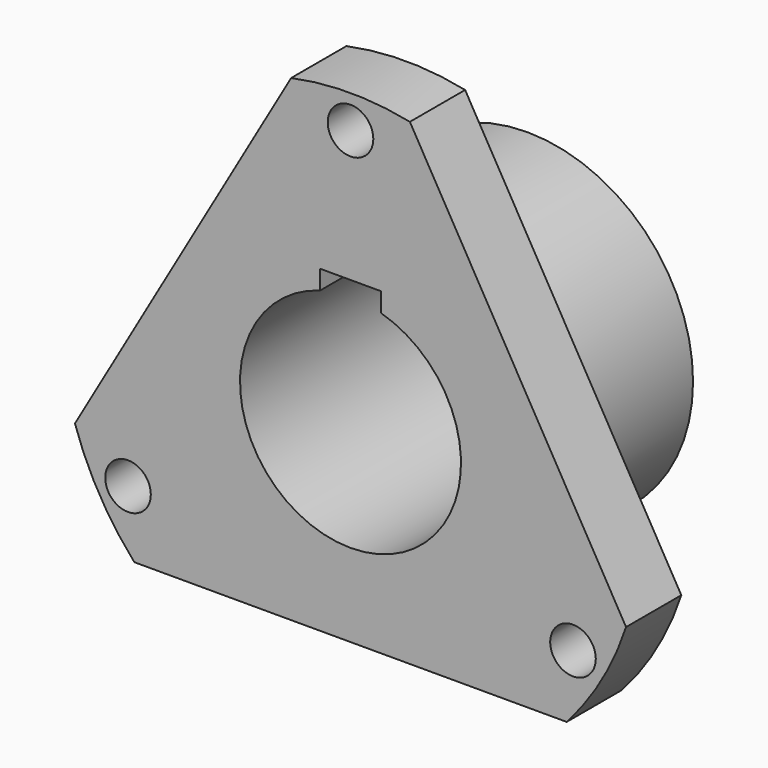
from build123d import *

# Parameters (mm, degrees)
F0_R     = 60
F0_R_2   = 40
F1_DEPTH = 80
F2_R     = 8.25
F2_R_2   = 60
F3_DEPTH = 25
F5_DEPTH = 80.001


with BuildPart() as f1:
    # F0 (on Front) → F1 (new body)
    with BuildSketch(Plane.XZ):
        Circle(F0_R)
        Circle(F0_R_2, mode=Mode.SUBTRACT)
    extrude(amount=F1_DEPTH)

    # F2 (on face) → F3 (join)
    with BuildSketch(Plane.XZ.offset(80)):
        with BuildLine():
            Line((99.752968, -32.777209), (21.490589, 102.777209))
            ThreePointArc((21.490589, 102.777209), (0, 105), (-21.490589, 102.777209))
            Line((-21.490589, 102.777209), (-99.752968, -32.777209))
            ThreePointArc((-99.752968, -32.777209), (-90.932667, -52.5), (-78.262379, -70))
            Line((-78.262379, -70), (78.262379, -70))
            ThreePointArc((78.262379, -70), (90.932667, -52.5), (99.752968, -32.777209))
        make_face()
        with Locations((-80.540363, -46.5)):
            Circle(F2_R, mode=Mode.SUBTRACT)
        with Locations((80.540363, -46.5)):
            Circle(F2_R, mode=Mode.SUBTRACT)
        Circle(F2_R_2, mode=Mode.SUBTRACT)
        with Locations((0, 93)):
            Circle(F2_R, mode=Mode.SUBTRACT)
        with BuildLine():
            Line((99.752968, -32.777209), (21.490589, 102.777209))
            ThreePointArc((21.490589, 102.777209), (0, 105), (-21.490589, 102.777209))
            Line((-21.490589, 102.777209), (-99.752968, -32.777209))
            ThreePointArc((-99.752968, -32.777209), (-90.932667, -52.5), (-78.262379, -70))
            Line((-78.262379, -70), (78.262379, -70))
            ThreePointArc((78.262379, -70), (90.932667, -52.5), (99.752968, -32.777209))
        make_face()
        with Locations((-80.540363, -46.5)):
            Circle(F2_R, mode=Mode.SUBTRACT)
        with Locations((80.540363, -46.5)):
            Circle(F2_R, mode=Mode.SUBTRACT)
        Circle(F2_R_2, mode=Mode.SUBTRACT)
        with Locations((0, 93)):
            Circle(F2_R, mode=Mode.SUBTRACT)
        with BuildLine():
            Line((99.752968, -32.777209), (21.490589, 102.777209))
            ThreePointArc((21.490589, 102.777209), (0, 105), (-21.490589, 102.777209))
            Line((-21.490589, 102.777209), (-99.752968, -32.777209))
            ThreePointArc((-99.752968, -32.777209), (-90.932667, -52.5), (-78.262379, -70))
            Line((-78.262379, -70), (78.262379, -70))
            ThreePointArc((78.262379, -70), (90.932667, -52.5), (99.752968, -32.777209))
        make_face()
        with Locations((-80.540363, -46.5)):
            Circle(F2_R, mode=Mode.SUBTRACT)
        with Locations((80.540363, -46.5)):
            Circle(F2_R, mode=Mode.SUBTRACT)
        Circle(F2_R_2, mode=Mode.SUBTRACT)
        with Locations((0, 93)):
            Circle(F2_R, mode=Mode.SUBTRACT)
    extrude(amount=-F3_DEPTH)

    # F4 (on face) → F5 (cut, through all)
    with BuildSketch(Plane.XZ.offset(80)):
        with BuildLine():
            Line((11, 45.4), (-11, 45.4))
            Line((-11, 45.4), (-11, 38.457769))
            ThreePointArc((-11, 38.457769), (0, 40), (11, 38.457769))
            Line((11, 38.457769), (11, 45.4))
        make_face()
    extrude(amount=-F5_DEPTH, mode=Mode.SUBTRACT)


solid = f1.part
